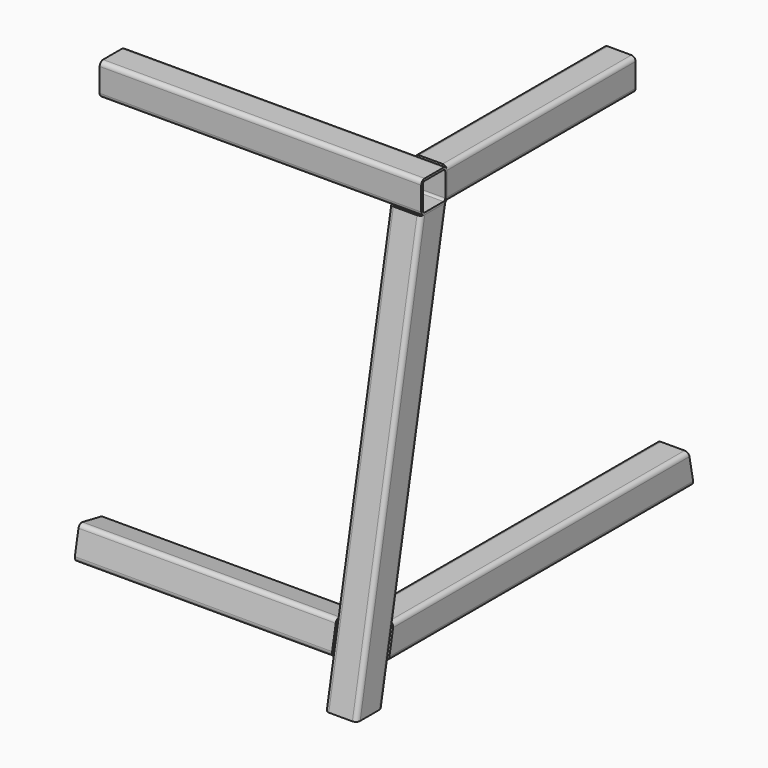
from build123d import *

# Parameters (mm, degrees)
F3_W      = 30
F3_H      = 30
F4_DEPTH  = 150
F5_R      = 4
F6_T      = -2
F7_W      = 30
F7_H      = 30
F8_DEPTH  = 110
F9_R      = 4
F10_T     = -2
F12_DEPTH = 30
F13_R     = 4
F14_T     = -2
F15_DEPTH = 30
F16_R     = 4
F17_T     = -2
F18_W     = 240
F18_H     = 30
F19_DEPTH = 30
F20_R     = 4
F21_T     = -2


with BuildPart() as f4:
    # F3 (on Right) → F4 (new body, symmetric)
    with BuildSketch(Plane.YZ):
        with Locations((-125, 400)):
            Rectangle(F3_W, F3_H)
    extrude(amount=F4_DEPTH, both=True)

    # F5
    f5_edges = [f4.edges().sort_by_distance(p)[0] for p in [
        (0, -140, 415),
        (0, -110, 415),
        (0, -140, 385),
        (0, -110, 385),
    ]]
    fillet(f5_edges, radius=F5_R)

    # F6
    f6_openings = [f4.faces().sort_by_distance(p)[0] for p in [
        (150, -125, 400),
        (-150, -125, 400),
    ]]
    offset(amount=F6_T, openings=f6_openings)


with BuildPart() as f8:
    # F7 (on Front) → F8 (new body, symmetric)
    with BuildSketch(Plane.XZ):
        with Locations((135, 400)):
            Rectangle(F7_W, F7_H)
    extrude(amount=F8_DEPTH, both=True)

    # F9
    f9_edges = [f8.edges().sort_by_distance(p)[0] for p in [
        (150, 0, 415),
        (120, 0, 415),
        (150, 0, 385),
        (120, 0, 385),
    ]]
    fillet(f9_edges, radius=F9_R)

    # F10
    f10_openings = [f8.faces().sort_by_distance(p)[0] for p in [
        (135, 110, 400),
        (135, -110, 400),
    ]]
    offset(amount=F10_T, openings=f10_openings)


with BuildPart() as f12:
    # F11 (on face) → F12 (new body)
    with BuildSketch(Plane.YZ.offset(150)):
        Polygon((-109.4318239247, 385), (-140, 385), (-215.2840880376, 0), (-184.7159119624, 0), (-177.8719039589, 35), (-172.0056113846, 65), align=None)
    extrude(amount=-F12_DEPTH)

    # F13
    f13_edges = [f12.edges().sort_by_distance(p)[0] for p in [
        (150, -177.642044, 192.5),
        (150, -147.073868, 192.5),
        (120, -177.642044, 192.5),
        (120, -147.073868, 192.5),
    ]]
    fillet(f13_edges, radius=F13_R)

    # F14
    f14_openings = [f12.faces().sort_by_distance(p)[0] for p in [
        (135, -124.715912, 385),
        (135, -200, 0),
    ]]
    offset(amount=F14_T, openings=f14_openings)


with BuildPart() as f15:
    # F11 (on face) → F15 (new body)
    with BuildSketch(Plane.YZ.offset(150)):
        Polygon((172.0056113846, 65), (-172.0056113846, 65), (-177.8719039589, 35), (177.871903959, 35), align=None)
    extrude(amount=-F15_DEPTH)

    # F16
    f16_edges = [f15.edges().sort_by_distance(p)[0] for p in [
        (150, 0, 65),
        (120, 0, 65),
        (150, 0, 35),
        (120, 0, 35),
    ]]
    fillet(f16_edges, radius=F16_R)

    # F17
    f17_openings = [f15.faces().sort_by_distance(p)[0] for p in [
        (135, -174.938758, 50),
        (135, 174.938758, 50),
    ]]
    offset(amount=F17_T, openings=f17_openings)


with BuildPart() as f19:
    # F18 (on face) → F19 (new body)
    with BuildSketch(Plane(origin=(0, -207.355418495, 40.5469183924), x_dir=(1, 0, 0), z_dir=(0, -0.9814128238, 0.191908492))):
        with Locations((0, 15.7824960465)):
            Rectangle(F18_W, F18_H)
    extrude(amount=-F19_DEPTH)

    # F20
    f20_edges = [f19.edges().sort_by_distance(p)[0] for p in [
        (0, -201.447996, 70.757255),
        (0, -207.205251, 41.31487),
        (0, -177.762866, 35.557615),
        (0, -172.005611, 65),
    ]]
    fillet(f20_edges, radius=F20_R)

    # F21
    f21_openings = [f19.faces().sort_by_distance(p)[0] for p in [
        (-120, -189.605431, 53.157435),
        (120, -189.605431, 53.157435),
    ]]
    offset(amount=F21_T, openings=f21_openings)


solid = Compound([f4.part, f8.part, f12.part, f15.part, f19.part])
